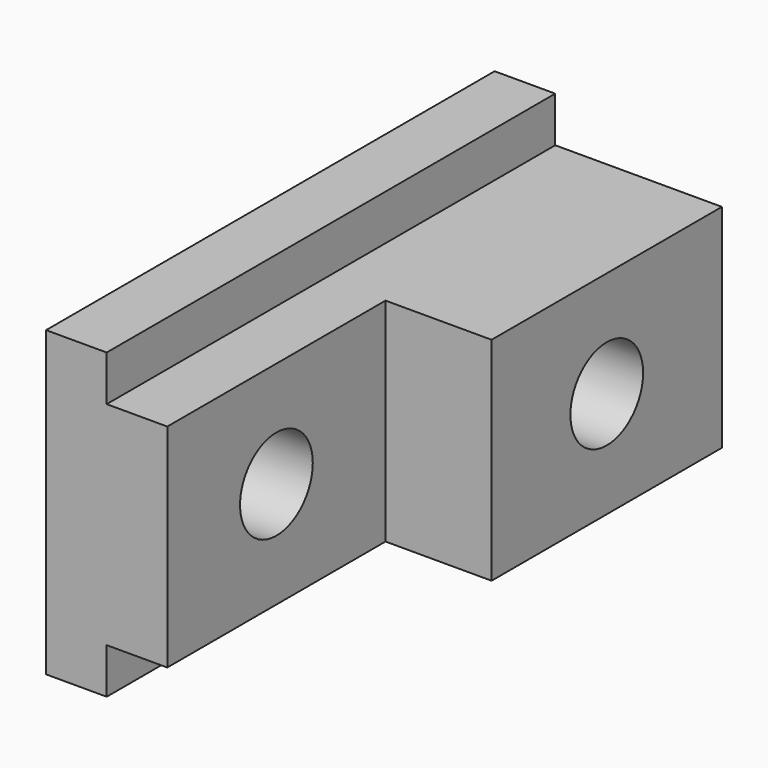
from build123d import *

# Parameters (mm, degrees)
F1_DEPTH = 117.475
F2_W     = 57.15
F2_H     = 44.45
F3_DEPTH = 22.225
F4_R     = 9.525
F5_DEPTH = 25.401
F6_R     = 9.525
F7_DEPTH = 47.626


with BuildPart() as f1:
    # F0 (on Front) → F1 (new body)
    with BuildSketch(Plane.XZ):
        Polygon((-699.658117, 373.364127), (-712.358117, 373.364127), (-712.358117, 309.864127), (-699.658117, 309.864127), (-699.658117, 319.389127), (-664.733117, 319.389127), (-664.733117, 363.839127), (-699.658117, 363.839127), align=None)
    extrude(amount=F1_DEPTH)

    # F2 (on face) → F3 (cut)
    with BuildSketch(Plane.YZ.offset(-664.733117)):
        with Locations((-88.9, 341.614127)):
            Rectangle(F2_W, F2_H)
    extrude(amount=-F3_DEPTH, mode=Mode.SUBTRACT)

    # F4 (on face) → F5 (cut, through all)
    with BuildSketch(Plane.YZ.offset(-686.958117)):
        with Locations((-88.9, 341.614127)):
            Circle(F4_R)
    extrude(amount=-F5_DEPTH, mode=Mode.SUBTRACT)

    # F6 (on face) → F7 (cut, through all)
    with BuildSketch(Plane.YZ.offset(-664.733117)):
        with Locations((-30.1625, 341.614127)):
            Circle(F6_R)
    extrude(amount=-F7_DEPTH, mode=Mode.SUBTRACT)


solid = f1.part
